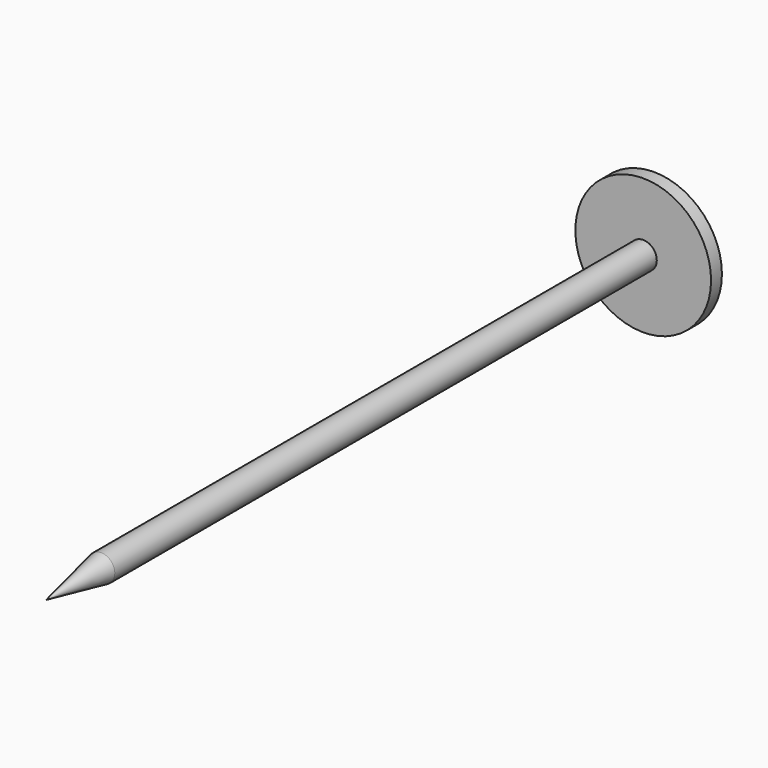
from build123d import *

# Parameters (mm, degrees)
F0_W     = 1
F0_H     = 55
F2_SIZE2 = 1
F2_SIZE  = 5.08


with BuildPart() as f1:
    # F0 (on Top) → F1 (revolve)
    with BuildSketch(Plane.XY):
        with Locations((-0.5, -21.4615388493)):
            Rectangle(F0_W, F0_H)
        Polygon((4, 7.0384611507), (-1, 7.0384611507), (-1, 6.0384611507), (0, 6.0384611507), (4, 6.0384611507), align=None)
    revolve(axis=Axis((-1, -21.4615388493, 0), (0, -1, 0)))

    # F2
    f2_edges = [f1.edges().sort_by_distance(p)[0] for p in [
        (-2, -48.961539, 0),
    ]]
    f2_side = f1.faces().sort_by_distance((-2, -21.461539, 0))[0]
    chamfer(f2_edges, length=F2_SIZE, length2=F2_SIZE2, reference=f2_side)


solid = f1.part
